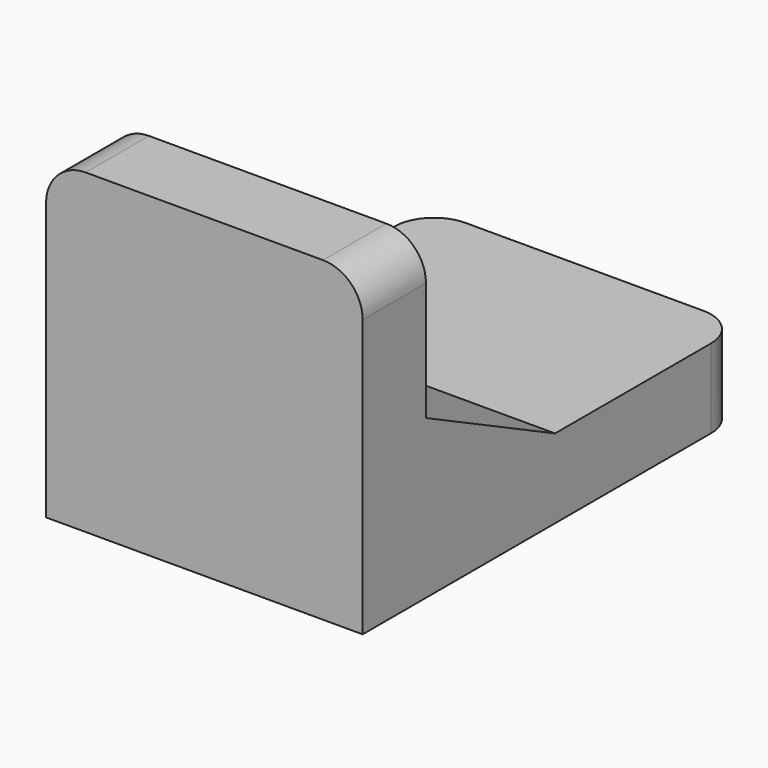
from build123d import *

# Parameters (mm, degrees)
F1_DEPTH = 40
F2_R     = 5


with BuildPart() as f1:
    # F0 (on Right) → F1 (new body)
    with BuildSketch(Plane.YZ):
        Polygon((0, 40), (0, 0), (60, 0), (60, 10), (30.387934, 10), (10, 20), (10, 40), align=None)
    extrude(amount=F1_DEPTH)

    # F2
    f2_edges = [f1.edges().sort_by_distance(p)[0] for p in [
        (0, 5, 40),
        (40, 5, 40),
        (0, 60, 5),
        (40, 60, 5),
    ]]
    fillet(f2_edges, radius=F2_R)


solid = f1.part
